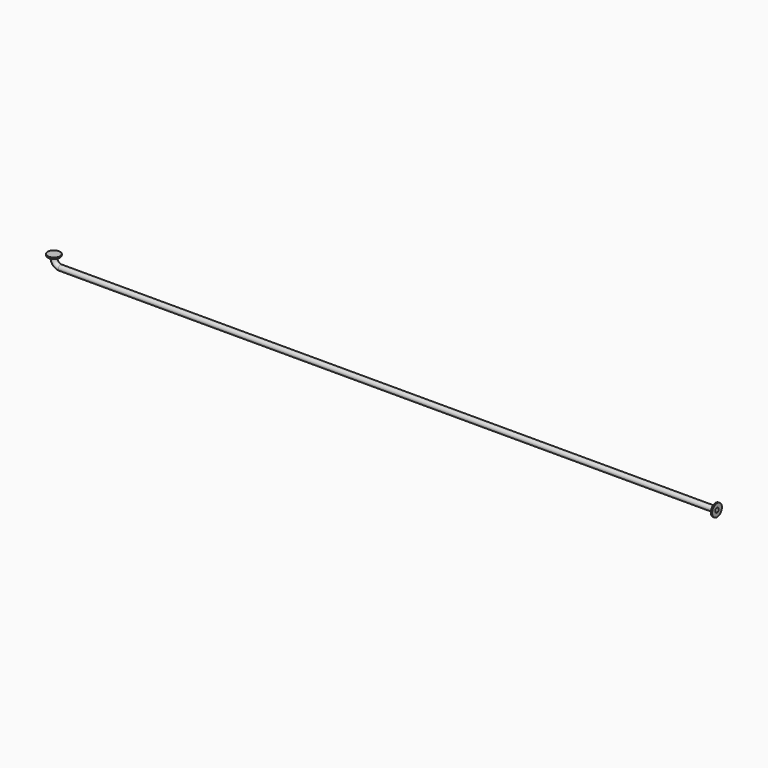
from build123d import *

# Parameters (mm, degrees)
F1_R     = 92.5
F1_R_2   = 40
F2_DEPTH = 20
F4_R     = 92.5
F4_R_2   = 40
F5_DEPTH = 20
F6_R     = 32.5
F7_DEPTH = 8000


with BuildPart() as f2:
    # F1 (on Top) → F2 (new body)
    with BuildSketch(Plane.XY):
        Circle(F1_R)
        Circle(F1_R_2, mode=Mode.SUBTRACT)
    extrude(amount=-F2_DEPTH)

    # F3: sweep along a path in F0
    with BuildLine(Plane.XZ) as f3_path:
        Line((0, 0), (0, -50))
        ThreePointArc((0, -50), (29.2893218813, -120.7106781187), (100, -150))
        Line((100, -150), (10000, -150))
    # F1 (on Top) → F3 (sweep)
    with BuildSketch(Plane.XY):
        Circle(F1_R_2)
    sweep(path=f3_path.line)

    # F4 (on face) → F5 (join)
    with BuildSketch(Plane.YZ.offset(10000)):
        with Locations((0, -150)):
            Circle(F4_R)
        with Locations((0, -150)):
            Circle(F4_R_2, mode=Mode.SUBTRACT)
    extrude(amount=-F5_DEPTH)

    # F6 (on face) → F7 (cut)
    with BuildSketch(Plane.YZ.offset(10000)):
        with Locations((0, -150)):
            Circle(F6_R)
    extrude(amount=-F7_DEPTH, mode=Mode.SUBTRACT)


solid = f2.part
